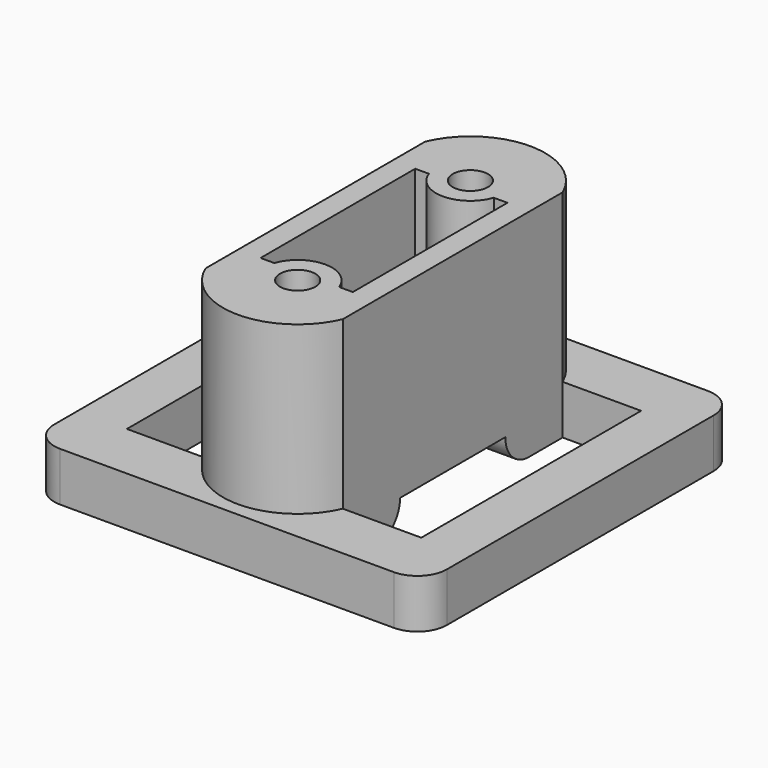
from build123d import *

# Parameters (mm, degrees)
SKETCH_W          = 40
SKETCH_H          = 40
SKETCH_W_2        = 8
SKETCH_H_2        = 28
SKETCH_W_3        = 9.4
SKETCH_H_3        = 13.4
PAD_DEPTH         = 5
SKETCH001_R       = 1.8
PAD001_DEPTH      = 17
POCKET_DEPTH      = 5
POCKET_DEPTH_BACK = -15
FILLET_R          = 3


with BuildPart() as part:
    # Sketch → Pad (new body)
    with BuildSketch(Plane.XY):
        Rectangle(SKETCH_W, SKETCH_H)
        with Locations((-11, 0)):
            Rectangle(SKETCH_W_2, SKETCH_H_2, mode=Mode.SUBTRACT)
        with Locations((11, 0)):
            Rectangle(SKETCH_W_2, SKETCH_H_2, mode=Mode.SUBTRACT)
        Rectangle(SKETCH_W_3, SKETCH_H_3, mode=Mode.SUBTRACT)
    extrude(amount=PAD_DEPTH)

    # Sketch001 (on Face18 of Pad) → Pad001 (join)
    with BuildSketch(Plane.XY.offset(5)):
        with BuildLine():
            Line((7, -14), (7, 14))
            ThreePointArc((7, 14), (0, 18.615773), (-7, 14))
            Line((-7, 14), (-7, -14))
            ThreePointArc((-7, -14), (0, -18.615773), (7, -14))
        make_face()
        with Locations((0, 11)):
            Circle(SKETCH001_R, mode=Mode.SUBTRACT)
        with Locations((0, -11)):
            Circle(SKETCH001_R, mode=Mode.SUBTRACT)
        with BuildLine():
            ThreePointArc((-3.305677, 9.85), (0, 7.5), (3.305677, 9.85))
            Line((3.305677, 9.85), (4.7, 9.85))
            Line((4.7, 9.85), (4.7, 0))
            Line((4.7, -9.85), (4.7, 0))
            Line((3.305677, -9.85), (4.7, -9.85))
            ThreePointArc((3.305677, -9.85), (0, -7.5), (-3.305677, -9.85))
            Line((-3.305677, -9.85), (-4.7, -9.85))
            Line((-4.7, -9.85), (-4.7, 0))
            Line((-4.7, 9.85), (-4.7, 0))
            Line((-3.305677, 9.85), (-4.7, 9.85))
        make_face(mode=Mode.SUBTRACT)
    extrude(amount=PAD001_DEPTH)

    # Sketch002 → Pocket (cut, two sides)
    with BuildSketch(Plane.YZ.offset(-4.7)) as pocket_sk:
        with BuildLine():
            ThreePointArc((-9.7, 0), (-7.57868, 0.87868), (-6.7, 3))
            Line((6.7, 3), (-6.7, 3))
            ThreePointArc((6.7, 3), (7.57868, 0.87868), (9.7, 0))
            Line((-9.7, 0), (9.7, 0))
        make_face()
    extrude(amount=-POCKET_DEPTH, mode=Mode.SUBTRACT)
    extrude(pocket_sk.sketch, amount=-POCKET_DEPTH_BACK, mode=Mode.SUBTRACT)

    # Fillet
    fillet_edges = [part.edges().sort_by_distance(p)[0] for p in [
        (20, 20, 2.5),
        (-20, 20, 2.5),
        (-20, -20, 2.5),
        (20, -20, 2.5),
    ]]
    fillet(fillet_edges, radius=FILLET_R)


solid = part.part
